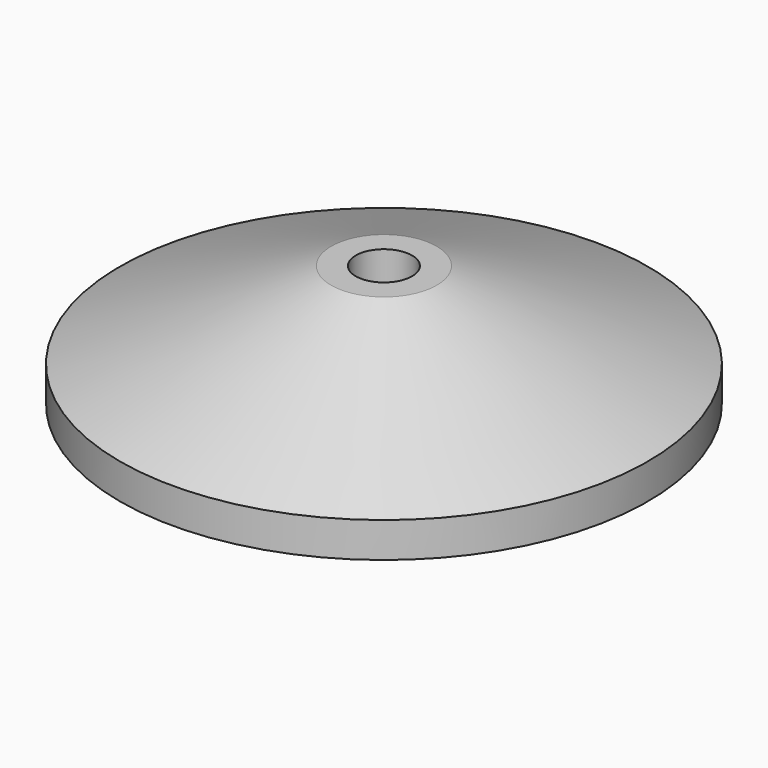
from build123d import *


with BuildPart() as part:
    # Sketch002 → Revolution (revolve)
    with BuildSketch(Plane.YZ):
        Polygon((1.6, 6.90933), (1.6, 0), (15, 0), (15, 2), (3, 6.90933), align=None)
    revolve(axis=Axis((0, 0, 0), (0, 0, 1)))


solid = part.part
